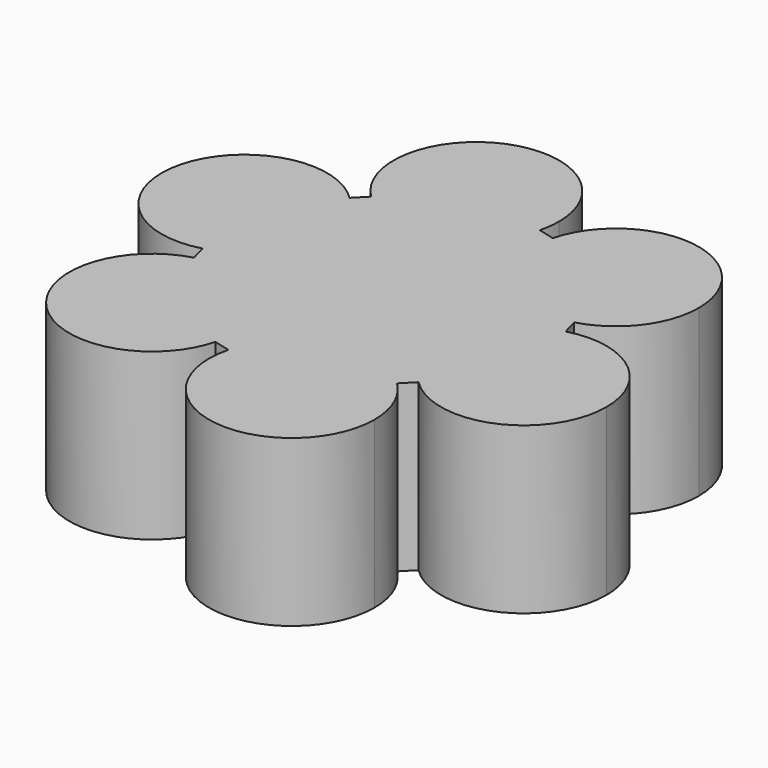
from build123d import *

# Parameters (mm, degrees)
F0_R     = 12.7
F1_DEPTH = 25.4


with BuildPart() as f1:
    # F0 (on Top) → F1 (new body)
    with BuildSketch(Plane.XY):
        with BuildLine():
            Line((7.3707728384, 23.1299660417), (4.863097807, 23.7839000386))
            ThreePointArc((4.863097807, 23.7839000386), (-4.0567226722, 14.7436122877), (-16.3457517616, 17.9482595445))
            Line((-16.3457517616, 17.9482595445), (-18.165912731, 16.1035162613))
            ThreePointArc((-18.165912731, 16.1035162613), (-15.3688283269, 11.9626305103), (-14.3857332102, 7.0632285104))
            ThreePointArc((-14.3857332102, 7.0632285104), (-16.9842741732, -0.6342077722), (-23.7165246, -5.1817064972))
            Line((-23.7165246, -5.1817064972), (-23.029010538, -7.6803837773))
            ThreePointArc((-23.029010538, -7.6803837773), (-11.9623656452, -9.823859748), (-6.9598019278, -19.9253187849))
            ThreePointArc((-6.9598019278, -19.9253187849), (-7.0629636452, -21.5407646313), (-7.3707728384, -23.1299660417))
            Line((-7.3707728384, -23.1299660417), (-4.863097807, -23.7839000386))
            ThreePointArc((-4.863097807, -23.7839000386), (4.0567226722, -14.7436122877), (16.3457517616, -17.9482595445))
            Line((16.3457517616, -17.9482595445), (18.165912731, -16.1035162613))
            ThreePointArc((18.165912731, -16.1035162613), (14.7967041208, -3.8585812536), (23.7165246, 5.1817064972))
            Line((23.7165246, 5.1817064972), (23.029010538, 7.6803837773))
            ThreePointArc((23.029010538, 7.6803837773), (10.7399814486, 10.8850310341), (7.3707728384, 23.1299660417))
        make_face()
        Circle(F0_R, mode=Mode.SUBTRACT)
        Circle(F0_R)
        with BuildLine():
            ThreePointArc((39.7857332102, -7.0632285104), (34.7831694928, 3.0382305265), (23.7165246, 5.1817064972))
            Line((23.7165246, 5.1817064972), (27.0857332102, -7.0632285104))
            Line((27.0857332102, -7.0632285104), (18.165912731, -16.1035162613))
            ThreePointArc((18.165912731, -16.1035162613), (31.9851352101, -18.7801333936), (39.7857332102, -7.0632285104))
        make_face()
        with BuildLine():
            ThreePointArc((20.1259312823, -26.9885472953), (19.1428361656, -22.0891452954), (16.3457517616, -17.9482595445))
            Line((16.3457517616, -17.9482595445), (7.4259312823, -26.9885472953))
            Line((7.4259312823, -26.9885472953), (-4.863097807, -23.7839000386))
            ThreePointArc((-4.863097807, -23.7839000386), (5.810485436, -39.5853855779), (20.1259312823, -26.9885472953))
        make_face()
        with BuildLine():
            Line((-27.0857332102, 7.0632285104), (-18.165912731, 16.1035162613))
            ThreePointArc((-18.165912731, 16.1035162613), (-39.3747622996, 10.2678757672), (-23.7165246, -5.1817064972))
            Line((-23.7165246, -5.1817064972), (-27.0857332102, 7.0632285104))
        make_face()
        with BuildLine():
            ThreePointArc((32.3598019278, 19.9253187849), (21.2752477741, 32.5221570675), (7.3707728384, 23.1299660417))
            Line((7.3707728384, 23.1299660417), (19.6598019278, 19.9253187849))
            Line((19.6598019278, 19.9253187849), (23.029010538, 7.6803837773))
            ThreePointArc((23.029010538, 7.6803837773), (29.7612609647, 12.2278825023), (32.3598019278, 19.9253187849))
        make_face()
        with BuildLine():
            Line((-16.3457517616, 17.9482595445), (-7.4259312823, 26.9885472953))
            Line((-7.4259312823, 26.9885472953), (4.863097807, 23.7839000386))
            ThreePointArc((4.863097807, 23.7839000386), (5.1709070002, 25.373101449), (5.2740687177, 26.9885472953))
            ThreePointArc((5.2740687177, 26.9885472953), (-12.3253332823, 38.7054521786), (-16.3457517616, 17.9482595445))
        make_face()
        with BuildLine():
            Line((-19.6598019278, -19.9253187849), (-23.029010538, -7.6803837773))
            ThreePointArc((-23.029010538, -7.6803837773), (-28.579622407, -28.9656065358), (-7.3707728384, -23.1299660417))
            Line((-7.3707728384, -23.1299660417), (-19.6598019278, -19.9253187849))
        make_face()
        with BuildLine():
            Line((4.863097807, 23.7839000386), (-7.4259312823, 26.9885472953))
            Line((-7.4259312823, 26.9885472953), (-16.3457517616, 17.9482595445))
            ThreePointArc((-16.3457517616, 17.9482595445), (-4.0567226722, 14.7436122877), (4.863097807, 23.7839000386))
        make_face()
        with BuildLine():
            Line((27.0857332102, -7.0632285104), (23.7165246, 5.1817064972))
            ThreePointArc((23.7165246, 5.1817064972), (14.7967041208, -3.8585812536), (18.165912731, -16.1035162613))
            Line((18.165912731, -16.1035162613), (27.0857332102, -7.0632285104))
        make_face()
        with BuildLine():
            Line((19.6598019278, 19.9253187849), (7.3707728384, 23.1299660417))
            ThreePointArc((7.3707728384, 23.1299660417), (10.7399814486, 10.8850310341), (23.029010538, 7.6803837773))
            Line((23.029010538, 7.6803837773), (19.6598019278, 19.9253187849))
        make_face()
        with BuildLine():
            ThreePointArc((-14.3857332102, 7.0632285104), (-15.3688283269, 11.9626305103), (-18.165912731, 16.1035162613))
            Line((-18.165912731, 16.1035162613), (-27.0857332102, 7.0632285104))
            Line((-27.0857332102, 7.0632285104), (-23.7165246, -5.1817064972))
            ThreePointArc((-23.7165246, -5.1817064972), (-16.9842741732, -0.6342077722), (-14.3857332102, 7.0632285104))
        make_face()
        with BuildLine():
            ThreePointArc((-6.9598019278, -19.9253187849), (-11.9623656452, -9.823859748), (-23.029010538, -7.6803837773))
            Line((-23.029010538, -7.6803837773), (-19.6598019278, -19.9253187849))
            Line((-19.6598019278, -19.9253187849), (-7.3707728384, -23.1299660417))
            ThreePointArc((-7.3707728384, -23.1299660417), (-7.0629636452, -21.5407646313), (-6.9598019278, -19.9253187849))
        make_face()
        with BuildLine():
            Line((7.4259312823, -26.9885472953), (16.3457517616, -17.9482595445))
            ThreePointArc((16.3457517616, -17.9482595445), (4.0567226722, -14.7436122877), (-4.863097807, -23.7839000386))
            Line((-4.863097807, -23.7839000386), (7.4259312823, -26.9885472953))
        make_face()
    extrude(amount=F1_DEPTH)


solid = f1.part
